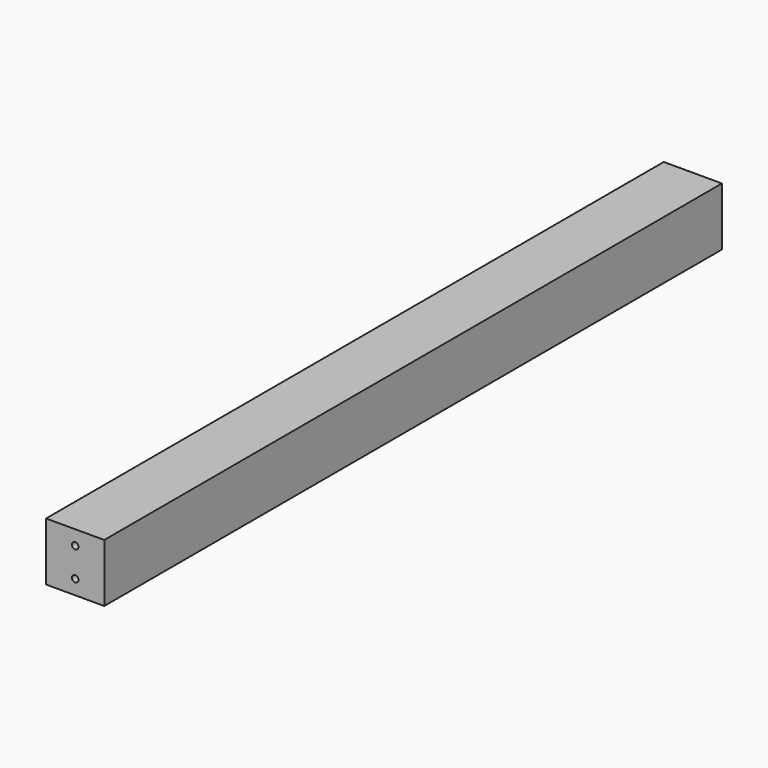
from build123d import *

# Parameters (mm, degrees)
F0_W     = 60
F0_H     = 60
F1_DEPTH = 796.2
F2_W     = 60
F2_H     = 60
F3_DEPTH = 6
F4_R     = 3.4
F5_DEPTH = 796.201
F6_W     = 60
F6_H     = 60
F7_DEPTH = 6


with BuildPart() as f1:
    # F0 (on Front) → F1 (new body)
    with BuildSketch(Plane.XZ):
        Rectangle(F0_W, F0_H)
    extrude(amount=F1_DEPTH)

    # F2 (on face) → F3 (join)
    with BuildSketch(Plane.XZ.offset(796.2)):
        Rectangle(F2_W, F2_H)
    extrude(amount=-F3_DEPTH)

    # F4 (on face) → F5 (cut, through all)
    with BuildSketch(Plane.XZ.offset(796.2)):
        with Locations((0, 15)):
            Circle(F4_R)
        with Locations((0, -15)):
            Circle(F4_R)
    extrude(amount=-F5_DEPTH, mode=Mode.SUBTRACT)

    # F6 (on face) → F7 (join)
    with BuildSketch(Plane(origin=(0, 0, 0), x_dir=(-1, 0, 0), z_dir=(0, 1, 0))):
        Rectangle(F6_W, F6_H)
    extrude(amount=-F7_DEPTH)


solid = f1.part
